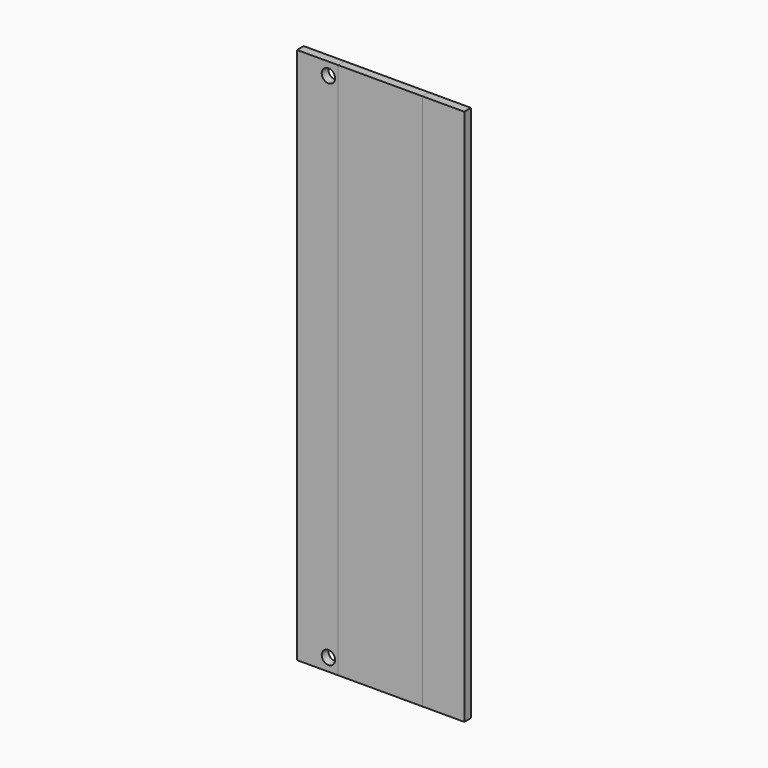
from build123d import *

# Parameters (mm, degrees)
SKETCH003_W  = 40
SKETCH003_H  = 128.5
SKETCH003_R  = 1.6
PAD003_DEPTH = 2
SKETCH002_W  = 20
SKETCH002_H  = 128.5
SKETCH002_R  = 1.6
PAD002_DEPTH = 2
SKETCH001_W  = 30
SKETCH001_H  = 128.5
SKETCH001_R  = 1.6
PAD001_DEPTH = 2
SKETCH004_W  = 9.8
SKETCH004_H  = 128.5
SKETCH004_R  = 1.6
PAD004_DEPTH = 2


with BuildPart() as f_8u:
    # Sketch003 → Pad003 (new body)
    with BuildSketch(Plane.XZ):
        with Locations((20, 64.25)):
            Rectangle(SKETCH003_W, SKETCH003_H)
        with Locations((7.5, 125.5)):
            Circle(SKETCH003_R, mode=Mode.SUBTRACT)
        with Locations((7.5, 3)):
            Circle(SKETCH003_R, mode=Mode.SUBTRACT)
    extrude(amount=PAD003_DEPTH)


with BuildPart() as f_4u:
    # Sketch002 → Pad002 (new body)
    with BuildSketch(Plane.XZ):
        with Locations((10, 64.25)):
            Rectangle(SKETCH002_W, SKETCH002_H)
        with Locations((7.5, 125.5)):
            Circle(SKETCH002_R, mode=Mode.SUBTRACT)
        with Locations((7.5, 3)):
            Circle(SKETCH002_R, mode=Mode.SUBTRACT)
    extrude(amount=PAD002_DEPTH)


with BuildPart() as f_6u:
    # Sketch001 → Pad001 (new body)
    with BuildSketch(Plane.XZ):
        with Locations((15, 64.25)):
            Rectangle(SKETCH001_W, SKETCH001_H)
        with Locations((7.5, 125.5)):
            Circle(SKETCH001_R, mode=Mode.SUBTRACT)
        with Locations((7.5, 3)):
            Circle(SKETCH001_R, mode=Mode.SUBTRACT)
    extrude(amount=PAD001_DEPTH)


with BuildPart() as f_2u:
    # Sketch004 → Pad004 (new body)
    with BuildSketch(Plane.XZ):
        with Locations((4.9, 64.25)):
            Rectangle(SKETCH004_W, SKETCH004_H)
        with Locations((7.5, 125.5)):
            Circle(SKETCH004_R, mode=Mode.SUBTRACT)
        with Locations((7.5, 3)):
            Circle(SKETCH004_R, mode=Mode.SUBTRACT)
    extrude(amount=PAD004_DEPTH)


solid = Compound([f_8u.part, f_4u.part, f_6u.part, f_2u.part])
